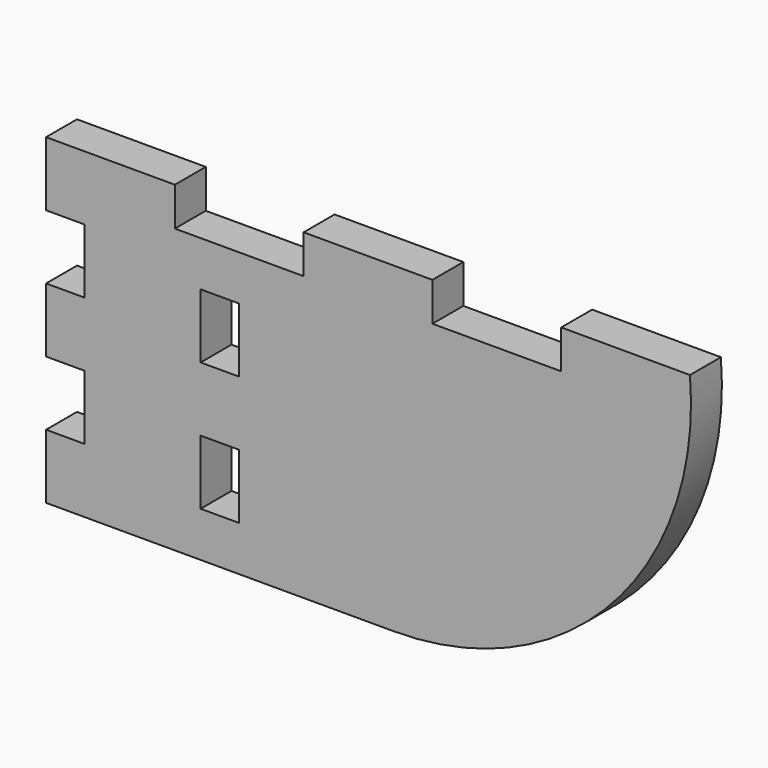
from build123d import *

# Parameters (mm, degrees)
F0_W     = 2.98
F0_H     = 5
F1_DEPTH = 3


with BuildPart() as f1:
    # F0 (on Front) → F1 (new body)
    with BuildSketch(Plane.XZ):
        with BuildLine():
            Line((-63.569787, -1.958204), (-36.56974, -1.958204))
            ThreePointArc((-36.56974, -1.958204), (-19.584468, 5.495335), (-13.569787, 23.041796))
            Line((-13.569787, 23.041796), (-23.569787, 23.041796))
            Line((-23.569787, 23.041796), (-23.569787, 20.041796))
            Line((-23.569787, 20.041796), (-33.569787, 20.041796))
            Line((-33.569787, 20.041796), (-33.569787, 23.041796))
            Line((-33.569787, 23.041796), (-43.569787, 23.041796))
            Line((-43.569787, 23.041796), (-43.569787, 20.041796))
            Line((-43.569787, 20.041796), (-53.569787, 20.041796))
            Line((-53.569787, 20.041796), (-53.569787, 23.041796))
            Line((-53.569787, 23.041796), (-63.569787, 23.041796))
            Line((-63.569787, 23.041796), (-63.569787, 18.041796))
            Line((-63.569787, 18.041796), (-60.569787, 18.041796))
            Line((-60.569787, 18.041796), (-60.569787, 13.041796))
            Line((-60.569787, 13.041796), (-63.569787, 13.041796))
            Line((-63.569787, 13.041796), (-63.569787, 8.041796))
            Line((-63.569787, 8.041796), (-60.569787, 8.041796))
            Line((-60.569787, 8.041796), (-60.569787, 3.041796))
            Line((-60.569787, 3.041796), (-63.569787, 3.041796))
            Line((-63.569787, 3.041796), (-63.569787, -1.958204))
        make_face()
        with Locations((-50.079787, 4.041796)):
            Rectangle(F0_W, F0_H, mode=Mode.SUBTRACT)
        with Locations((-50.079787, 14.041796)):
            Rectangle(F0_W, F0_H, mode=Mode.SUBTRACT)
    extrude(amount=F1_DEPTH)


solid = f1.part
